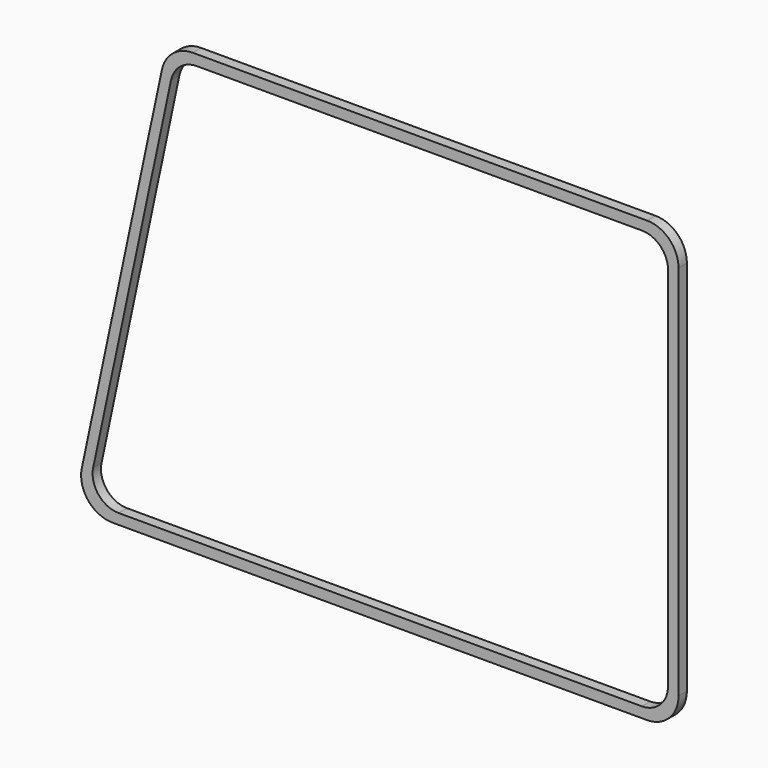
from build123d import *

# Parameters (mm, degrees)
BOX052_W               = 11
BOX052_H               = 11
BOX052_DEPTH           = 48
BOX052_ROLL_ANGLE      = -2.200006
BOX052_PITCH_ANGLE     = 12.000025
BOX052_PLACEMENT_ANGLE = -1e-06
BOX053_W               = 57
BOX053_H               = 5
BOX053_DEPTH           = 40
FILLET060_R            = 2.5
BOX006_W               = 11
BOX006_H               = 11
BOX006_DEPTH           = 48
BOX006_ROLL_ANGLE      = -2.200006
BOX006_PITCH_ANGLE     = 12.000025
BOX006_PLACEMENT_ANGLE = -1e-06
BOX005_W               = 58
BOX005_H               = 1
BOX005_DEPTH           = 42
FILLET058_R            = 3


with BuildPart() as cube478:
    # Box052 → Box052 (new body)
    with BuildSketch(Plane.XY):
        with Locations((5.5, 5.5)):
            Rectangle(BOX052_W, BOX052_H)
    extrude(amount=BOX052_DEPTH)


with BuildPart() as cube478_1:
    # Box052 roll: moved
    add(cube478.part.rotate(Axis((0, 0, 0), (1, 0, 0)), BOX052_ROLL_ANGLE))


with BuildPart() as cube478_2:
    # Box052 pitch: moved
    add(cube478_1.part.rotate(Axis((0, 0, 0), (0, 1, 0)), BOX052_PITCH_ANGLE))


with BuildPart() as cube478_3:
    # Box052 placement: moved
    add(cube478_2.part.moved(Location((9.5, -2, 70))).rotate(Axis((9.5, -2, 70), (0, 0, 1)), BOX052_PLACEMENT_ANGLE))


with BuildPart() as fillet060:
    # Box053 → Box053 (new body)
    with BuildSketch(Plane(origin=(19.5, 2, 71), x_dir=(1, 0, 0), z_dir=(0, 0, 1))):
        with Locations((28.5, 2.5)):
            Rectangle(BOX053_W, BOX053_H)
    extrude(amount=BOX053_DEPTH)

    # Cut038: cut Cube478
    add(cube478_3.part, mode=Mode.SUBTRACT)

    # Fillet060
    fillet060_edges = [fillet060.edges().sort_by_distance(p)[0] for p in [
        (76.5, 4.5, 71),
        (20.958305, 4.5, 71),
        (76.5, 4.5, 111),
        (29.460585, 4.5, 111),
    ]]
    fillet(fillet060_edges, radius=FILLET060_R)


with BuildPart() as cube364:
    # Box006 → Box006 (new body)
    with BuildSketch(Plane.XY):
        with Locations((5.5, 5.5)):
            Rectangle(BOX006_W, BOX006_H)
    extrude(amount=BOX006_DEPTH)


with BuildPart() as cube364_1:
    # Box006 roll: moved
    add(cube364.part.rotate(Axis((0, 0, 0), (1, 0, 0)), BOX006_ROLL_ANGLE))


with BuildPart() as cube364_2:
    # Box006 pitch: moved
    add(cube364_1.part.rotate(Axis((0, 0, 0), (0, 1, 0)), BOX006_PITCH_ANGLE))


with BuildPart() as cube364_3:
    # Box006 placement: moved
    add(cube364_2.part.moved(Location((8.5, -2, 70))).rotate(Axis((8.5, -2, 70), (0, 0, 1)), BOX006_PLACEMENT_ANGLE))


with BuildPart() as cut039:
    # Box005 → Box005 (new body)
    with BuildSketch(Plane(origin=(19.5, 2, 70), x_dir=(1, 0, 0), z_dir=(0, 0, 1))):
        with Locations((29, 0.5)):
            Rectangle(BOX005_W, BOX005_H)
    extrude(amount=BOX005_DEPTH)

    # Cut002: cut Cube364
    add(cube364_3.part, mode=Mode.SUBTRACT)

    # Fillet058
    fillet058_edges = [cut039.edges().sort_by_distance(p)[0] for p in [
        (77.5, 2.5, 70),
        (19.745748, 2.5, 70),
        (77.5, 2.5, 112),
        (28.673142, 2.5, 112),
    ]]
    fillet(fillet058_edges, radius=FILLET058_R)

    # Cut039: cut Fillet060
    add(fillet060.part, mode=Mode.SUBTRACT)


solid = cut039.part
